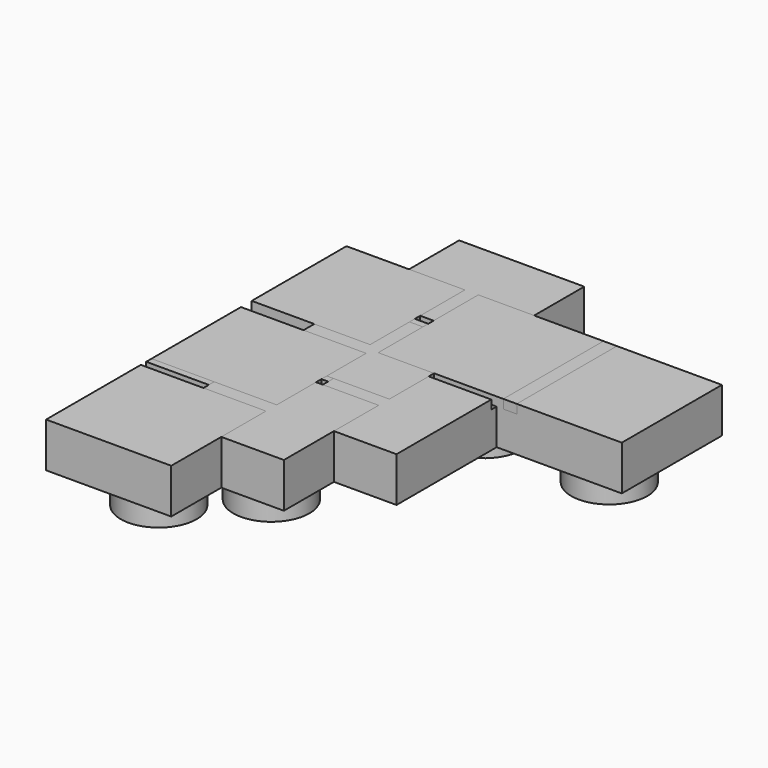
from build123d import *

# Parameters (mm, degrees)
SKETCH_W        = 14
SKETCH_H        = 14
PAD_DEPTH       = 5
SKETCH002_W     = 8.5
SKETCH002_H     = 8.5
PAD001_DEPTH    = 4
SKETCH003_W     = 28
SKETCH003_H     = 28
PAD002_DEPTH    = 5
SKETCH004_R     = 4.25
PAD003_DEPTH    = 4
POCKET_DEPTH    = 1
SKETCH006_W     = 14
SKETCH006_H     = 42
PAD004_DEPTH    = 5
SKETCH007_R     = 4.25
PAD005_DEPTH    = 4
SKETCH008_W     = 14
SKETCH008_H     = 1.5
POCKET001_DEPTH = 1
PAD006_DEPTH    = 5
SKETCH010_R     = 4.25
PAD007_DEPTH    = 4
SKETCH013_W     = 1.5
SKETCH013_H     = 14
SKETCH013_W_2   = 14
SKETCH013_H_2   = 1.5
POCKET002_DEPTH = 1
PAD008_DEPTH    = 5
SKETCH012_R     = 4.25
PAD009_DEPTH    = 4
SKETCH014_W     = 1.5
SKETCH014_H     = 14
SKETCH014_W_2   = 14
SKETCH014_H_2   = 1.5
POCKET003_DEPTH = 1


with BuildPart() as body:
    # Sketch → Pad (new body)
    with BuildSketch(Plane.XY):
        Rectangle(SKETCH_W, SKETCH_H)
    extrude(amount=PAD_DEPTH)

    # Sketch002 (on Face5 of Pad) → Pad001 (join)
    with BuildSketch(Plane(origin=(0, 0, 0), x_dir=(1, 0, 0), z_dir=(0, 0, -1))):
        Rectangle(SKETCH002_W, SKETCH002_H)
    extrude(amount=PAD001_DEPTH)


with BuildPart() as body001:
    # Sketch003 → Pad002 (new body)
    with BuildSketch(Plane.XY):
        Rectangle(SKETCH003_W, SKETCH003_H)
    extrude(amount=PAD002_DEPTH)

    # Sketch004 (on Face5 of Pad002) → Pad003 (join)
    with BuildSketch(Plane(origin=(0, 0, 0), x_dir=(1, 0, 0), z_dir=(0, 0, -1))):
        with Locations((-7, 7)):
            Circle(SKETCH004_R)
        with Locations((7, -7)):
            Circle(SKETCH004_R)
    extrude(amount=PAD003_DEPTH)

    # Sketch005 (on Face5 of Pad003) → Pocket (cut)
    with BuildSketch(Plane.XY.offset(5)):
        Polygon((-0.75, 14), (-0.75, 0.75), (-14, 0.75), (-14, -0.75), (-0.75, -0.75), (-0.75, -14), (0.75, -14), (0.75, -0.75), (14, -0.75), (14, 0.75), (0.75, 0.75), (0.75, 14), align=None)
    extrude(amount=-POCKET_DEPTH, mode=Mode.SUBTRACT)


with BuildPart() as body002:
    # Sketch006 → Pad004 (new body)
    with BuildSketch(Plane.XY):
        Rectangle(SKETCH006_W, SKETCH006_H)
    extrude(amount=PAD004_DEPTH)

    # Sketch007 (on Face5 of Pad004) → Pad005 (join)
    with BuildSketch(Plane(origin=(0, 0, 0), x_dir=(1, 0, 0), z_dir=(0, 0, -1))):
        with Locations((0, 14)):
            Circle(SKETCH007_R)
        with Locations((0, -14)):
            Circle(SKETCH007_R)
    extrude(amount=PAD005_DEPTH)

    # Sketch008 (on Face5 of Pad005) → Pocket001 (cut)
    with BuildSketch(Plane.XY.offset(5)):
        with Locations((0, 7)):
            Rectangle(SKETCH008_W, SKETCH008_H)
        with Locations((0, -7)):
            Rectangle(SKETCH008_W, SKETCH008_H)
    extrude(amount=-POCKET001_DEPTH, mode=Mode.SUBTRACT)


with BuildPart() as body003:
    # Sketch009 → Pad006 (new body)
    with BuildSketch(Plane.XY):
        Polygon((-14, 14), (-14, -28), (0, -28), (0, 0), (28, 0), (28, 14), align=None)
    extrude(amount=PAD006_DEPTH)

    # Sketch010 (on Face7 of Pad006) → Pad007 (join)
    with BuildSketch(Plane(origin=(0, 0, 0), x_dir=(1, 0, 0), z_dir=(0, 0, -1))):
        with Locations((21, -7)):
            Circle(SKETCH010_R)
        with Locations((-7, 21)):
            Circle(SKETCH010_R)
        with Locations((-7, -7)):
            Circle(SKETCH010_R)
    extrude(amount=PAD007_DEPTH)

    # Sketch013 (on Face5 of Pad007) → Pocket002 (cut)
    with BuildSketch(Plane.XY.offset(5)):
        with Locations((14, 7)):
            Rectangle(SKETCH013_W, SKETCH013_H)
        with Locations((-7, -14)):
            Rectangle(SKETCH013_W_2, SKETCH013_H_2)
        Polygon((0.75, 14), (-0.75, 14), (-0.75, 0.75), (-14, 0.75), (-14, -0.75), (0.75, -0.75), align=None)
    extrude(amount=-POCKET002_DEPTH, mode=Mode.SUBTRACT)


with BuildPart() as body004:
    # Sketch011 → Pad008 (new body)
    with BuildSketch(Plane.XY):
        Polygon((-14, 14), (-14, -28), (0, -28), (0, 0), (28, 0), (28, 14), align=None)
    extrude(amount=PAD008_DEPTH)

    # Sketch012 (on Face7 of Pad008) → Pad009 (join)
    with BuildSketch(Plane(origin=(0, 0, 0), x_dir=(1, 0, 0), z_dir=(0, 0, -1))):
        with Locations((21, -7)):
            Circle(SKETCH012_R)
        with Locations((-7, 21)):
            Circle(SKETCH012_R)
    extrude(amount=PAD009_DEPTH)

    # Sketch014 (on Face5 of Pad009) → Pocket003 (cut)
    with BuildSketch(Plane.XY.offset(5)):
        Polygon((0.75, 14), (-0.75, 14), (-0.75, 0.75), (-14, 0.75), (-14, -0.75), (0.75, -0.75), align=None)
        with Locations((15.5, 7)):
            Rectangle(SKETCH014_W, SKETCH014_H)
        with Locations((-7, -14)):
            Rectangle(SKETCH014_W_2, SKETCH014_H_2)
    extrude(amount=-POCKET003_DEPTH, mode=Mode.SUBTRACT)


solid = Compound([body.part, body001.part, body002.part, body003.part, body004.part])
